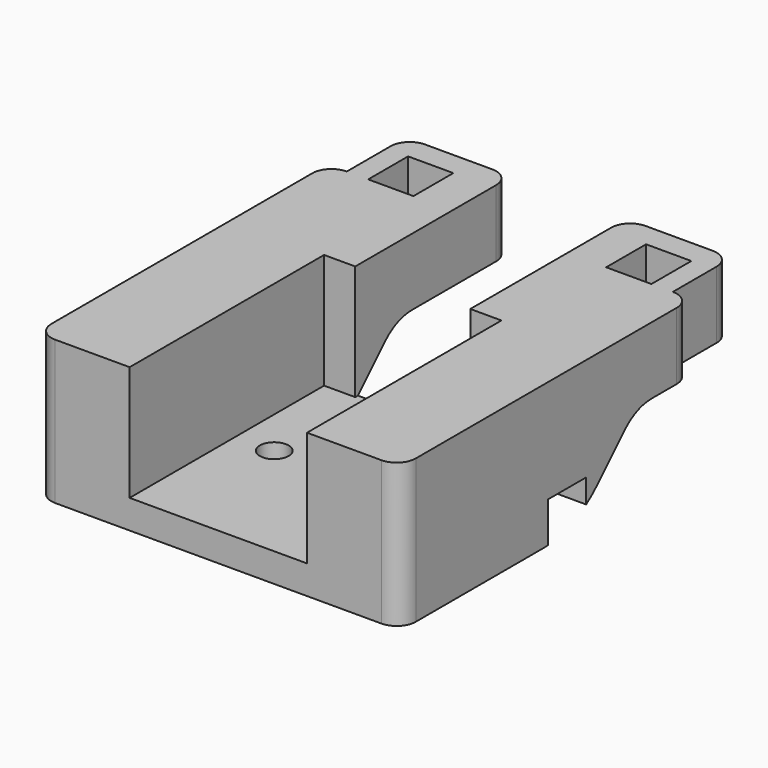
from build123d import *

# Parameters (mm, degrees)
SKETCH_W        = 4.72
SKETCH_H        = 5.2
PAD_DEPTH       = 15
POCKET_DEPTH    = 38.001
POCKET005_DEPTH = 12
SKETCH003_R     = 1.5
POCKET006_DEPTH = 5
FILLET_R        = 1.99
FILLET001_R     = 10
FILLET002_R     = 5
SKETCH004_W     = 5
SKETCH004_H     = 4.23039
POCKET007_DEPTH = 6


with BuildPart() as part:
    # Sketch → Pad (new body)
    with BuildSketch(Plane.XY):
        Polygon((-19, 19), (-19, -19), (19, -19), (19, 19), (17, 19), (17, 26.7), (6, 26.7), (6, 19), (-6, 19), (-6, 26.7), (-17, 26.7), (-17, 19), align=None)
        with Locations((-12.41, 21.6)):
            Rectangle(SKETCH_W, SKETCH_H, mode=Mode.SUBTRACT)
        with Locations((12.41, 21.6)):
            Rectangle(SKETCH_W, SKETCH_H, mode=Mode.SUBTRACT)
    extrude(amount=PAD_DEPTH)

    # Sketch001 (on Face3 of Pad) → Pocket (cut, through all)
    with BuildSketch(Plane.YZ.offset(19)):
        Polygon((26.7, 8), (26.7, 0), (3.7, 0), (11.7, 8), align=None)
    extrude(amount=-POCKET_DEPTH, mode=Mode.SUBTRACT)

    # Sketch002 (on Face6 of Pocket) → Pocket005 (cut)
    with BuildSketch(Plane.XY.offset(15)):
        Polygon((-9.25, -19), (9.25, -19), (9.25, 6.35), (6, 6.35), (6, 19), (-6, 19), (-6, 6.35), (-9.25, 6.35), align=None)
    extrude(amount=-POCKET005_DEPTH, mode=Mode.SUBTRACT)

    # Sketch003 → Pocket006 (cut)
    with BuildSketch(Plane.XY.offset(4)):
        with Locations((-5.25, -5.15)):
            Circle(SKETCH003_R)
        with Locations((5.25, -5.15)):
            Circle(SKETCH003_R)
    extrude(amount=-POCKET006_DEPTH, mode=Mode.SUBTRACT)

    # Fillet
    fillet_edges = [part.edges().sort_by_distance(p)[0] for p in [
        (17, 26.7, 11.5),
        (6, 26.7, 11.5),
        (-6, 26.7, 11.5),
        (-17, 26.7, 11.5),
        (-19, 19, 11.5),
        (19, 19, 11.5),
        (19, -19, 7.5),
        (-19, -19, 7.5),
    ]]
    fillet(fillet_edges, radius=FILLET_R)

    # Fillet001
    fillet001_edges = [part.edges().sort_by_distance(p)[0] for p in [
        (0, 3.7, 0),
    ]]
    fillet(fillet001_edges, radius=FILLET001_R)

    # Fillet002
    fillet002_edges = [part.edges().sort_by_distance(p)[0] for p in [
        (12.5, 11.7, 8),
        (-12.5, 11.7, 8),
    ]]
    fillet(fillet002_edges, radius=FILLET002_R)

    # Sketch004 (on Face10 of Fillet002) → Pocket007 (cut)
    with BuildSketch(Plane.YZ.offset(19)):
        with Locations((2.7, 2.115195)):
            Rectangle(SKETCH004_W, SKETCH004_H)
    extrude(amount=-POCKET007_DEPTH, mode=Mode.SUBTRACT)


solid = part.part
